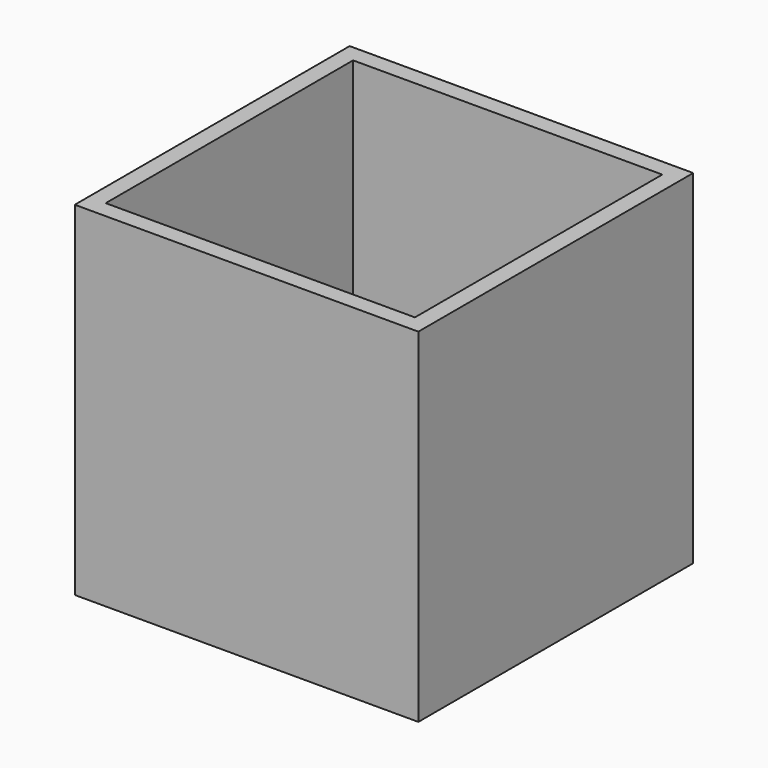
from build123d import *

# Parameters (mm, degrees)
F0_W     = 20
F0_H     = 20
F1_DEPTH = 20
F2_T     = -1
F4_D     = 1


with BuildPart() as f1:
    # F0 (on Top) → F1 (new body)
    with BuildSketch(Plane.XY):
        with Locations((8.472297, -16.565783)):
            Rectangle(F0_W, F0_H)
    extrude(amount=F1_DEPTH)

    # F2
    f2_openings = [f1.faces().sort_by_distance(p)[0] for p in [
        (8.472297, -16.565783, 20),
    ]]
    offset(amount=F2_T, openings=f2_openings)

    # F4 (through all)
    with Locations(Plane(origin=(0, 0, 0), x_dir=(1, 0, 0), z_dir=(0, 0, -1))):
        with Locations((14.472297, 10.565783), (8.472297, 10.565783), (2.472297, 10.565783), (2.472297, 16.565783), (8.472297, 16.565783), (14.472297, 16.565783), (14.472297, 22.565783), (8.472297, 22.565783), (2.472297, 22.565783)):
            Hole(F4_D / 2)


solid = f1.part
